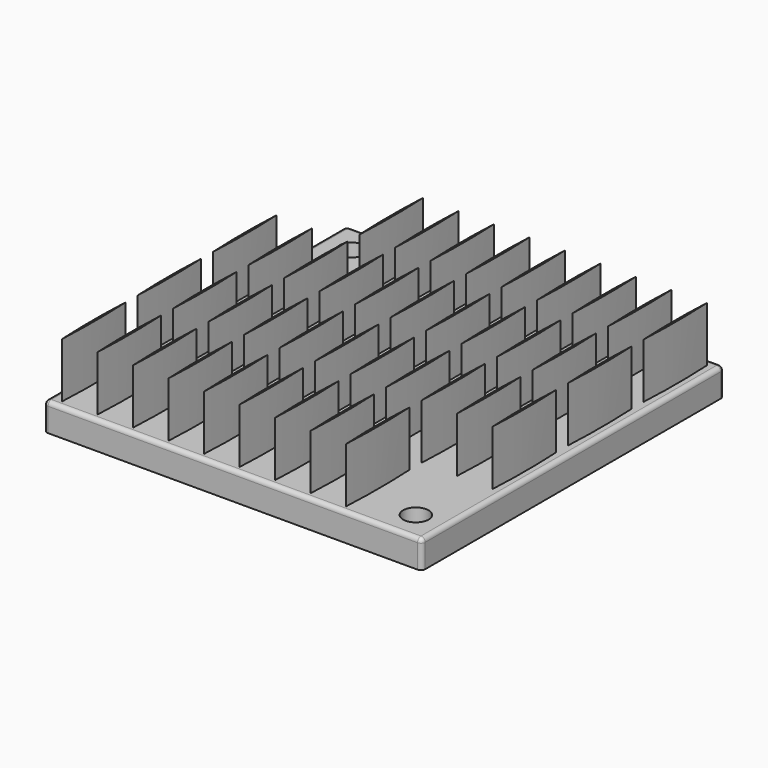
from build123d import *

# Parameters (mm, degrees)
SKETCH011_W                   = 44.7
SKETCH011_H                   = 44.7
PAD006_DEPTH                  = 3.3
FILLET001_R                   = 0.5
PAD007_DEPTH                  = 6.5
PAD007_LINEARPATTERN_2_DEPTH  = 6.5
PAD007_LINEARPATTERN_3_DEPTH  = 6.5
PAD007_LINEARPATTERN_4_DEPTH  = 6.5
PAD007_LINEARPATTERN_5_DEPTH  = 6.5
PAD007_LINEARPATTERN_6_DEPTH  = 6.5
PAD007_LINEARPATTERN_7_DEPTH  = 6.5
PAD007_LINEARPATTERN_8_DEPTH  = 6.5
PAD007_LINEARPATTERN_9_DEPTH  = 6.5
PAD007_LINEARPATTERN_10_DEPTH = 6.5
PAD007_LINEARPATTERN_11_DEPTH = 6.5
LINEARPATTERN001_COUNT        = 4
LINEARPATTERN001_PITCH        = 11.1666666667
SKETCH013_W                   = 4.44947025
SKETCH013_H                   = 9.881485
POCKET006_DEPTH               = 6.5
SKETCH014_W                   = 4.44947025
SKETCH014_H                   = 9.4
POCKET007_DEPTH               = 6.5
SKETCH015_R                   = 1.5
POCKET008_DEPTH               = 3.301


with BuildPart() as part:
    # Sketch011 → Pad006 (new body)
    with BuildSketch(Plane.XY):
        with Locations((-3.85, -18.15)):
            Rectangle(SKETCH011_W, SKETCH011_H)
    extrude(amount=PAD006_DEPTH)

    # Fillet001
    fillet001_edges = [part.edges().sort_by_distance(p)[0] for p in [
        (-3.85, 4.2, 3.3),
        (-26.2, -18.15, 3.3),
        (18.5, -18.15, 3.3),
        (-3.85, -40.5, 3.3),
        (-26.2, 4.2, 1.65),
        (-26.2, -40.5, 1.65),
        (18.5, 4.2, 1.65),
        (18.5, -40.5, 1.65),
    ]]
    fillet(fillet001_edges, radius=FILLET001_R)

    # Sketch012 (on Face13 of Fillet001) → Pad007 (join)
    with BuildSketch(Plane.XY.offset(3.3)):
        with BuildLine():
            ThreePointArc((-24.7, -6.2), (-24.575264875, -1.5), (-24.7, 3.2))
            ThreePointArc((-24.7, 3.2), (-24.824735125, -1.5), (-24.7, -6.2))
        make_face()
    pad007 = extrude(amount=PAD007_DEPTH)

    # Sketch012 LinearPattern 2 → Pad007 LinearPattern 2 (add)
    with BuildSketch(Plane(origin=(4.2, 0, 3.3), x_dir=(1, 0, 0), z_dir=(0, 0, 1))):
        with BuildLine():
            ThreePointArc((-24.7, -6.2), (-24.575264875, -1.5), (-24.7, 3.2))
            ThreePointArc((-24.7, 3.2), (-24.824735125, -1.5), (-24.7, -6.2))
        make_face()
    pad007_linearpattern_2 = extrude(amount=PAD007_LINEARPATTERN_2_DEPTH)

    # Sketch012 LinearPattern 3 → Pad007 LinearPattern 3 (add)
    with BuildSketch(Plane(origin=(8.4, 0, 3.3), x_dir=(1, 0, 0), z_dir=(0, 0, 1))):
        with BuildLine():
            ThreePointArc((-24.7, -6.2), (-24.575264875, -1.5), (-24.7, 3.2))
            ThreePointArc((-24.7, 3.2), (-24.824735125, -1.5), (-24.7, -6.2))
        make_face()
    pad007_linearpattern_3 = extrude(amount=PAD007_LINEARPATTERN_3_DEPTH)

    # Sketch012 LinearPattern 4 → Pad007 LinearPattern 4 (add)
    with BuildSketch(Plane(origin=(12.6, 0, 3.3), x_dir=(1, 0, 0), z_dir=(0, 0, 1))):
        with BuildLine():
            ThreePointArc((-24.7, -6.2), (-24.575264875, -1.5), (-24.7, 3.2))
            ThreePointArc((-24.7, 3.2), (-24.824735125, -1.5), (-24.7, -6.2))
        make_face()
    pad007_linearpattern_4 = extrude(amount=PAD007_LINEARPATTERN_4_DEPTH)

    # Sketch012 LinearPattern 5 → Pad007 LinearPattern 5 (add)
    with BuildSketch(Plane(origin=(16.8, 0, 3.3), x_dir=(1, 0, 0), z_dir=(0, 0, 1))):
        with BuildLine():
            ThreePointArc((-24.7, -6.2), (-24.575264875, -1.5), (-24.7, 3.2))
            ThreePointArc((-24.7, 3.2), (-24.824735125, -1.5), (-24.7, -6.2))
        make_face()
    pad007_linearpattern_5 = extrude(amount=PAD007_LINEARPATTERN_5_DEPTH)

    # Sketch012 LinearPattern 6 → Pad007 LinearPattern 6 (add)
    with BuildSketch(Plane(origin=(21, 0, 3.3), x_dir=(1, 0, 0), z_dir=(0, 0, 1))):
        with BuildLine():
            ThreePointArc((-24.7, -6.2), (-24.575264875, -1.5), (-24.7, 3.2))
            ThreePointArc((-24.7, 3.2), (-24.824735125, -1.5), (-24.7, -6.2))
        make_face()
    pad007_linearpattern_6 = extrude(amount=PAD007_LINEARPATTERN_6_DEPTH)

    # Sketch012 LinearPattern 7 → Pad007 LinearPattern 7 (add)
    with BuildSketch(Plane(origin=(25.2, 0, 3.3), x_dir=(1, 0, 0), z_dir=(0, 0, 1))):
        with BuildLine():
            ThreePointArc((-24.7, -6.2), (-24.575264875, -1.5), (-24.7, 3.2))
            ThreePointArc((-24.7, 3.2), (-24.824735125, -1.5), (-24.7, -6.2))
        make_face()
    pad007_linearpattern_7 = extrude(amount=PAD007_LINEARPATTERN_7_DEPTH)

    # Sketch012 LinearPattern 8 → Pad007 LinearPattern 8 (add)
    with BuildSketch(Plane(origin=(29.4, 0, 3.3), x_dir=(1, 0, 0), z_dir=(0, 0, 1))):
        with BuildLine():
            ThreePointArc((-24.7, -6.2), (-24.575264875, -1.5), (-24.7, 3.2))
            ThreePointArc((-24.7, 3.2), (-24.824735125, -1.5), (-24.7, -6.2))
        make_face()
    pad007_linearpattern_8 = extrude(amount=PAD007_LINEARPATTERN_8_DEPTH)

    # Sketch012 LinearPattern 9 → Pad007 LinearPattern 9 (add)
    with BuildSketch(Plane(origin=(33.6, 0, 3.3), x_dir=(1, 0, 0), z_dir=(0, 0, 1))):
        with BuildLine():
            ThreePointArc((-24.7, -6.2), (-24.575264875, -1.5), (-24.7, 3.2))
            ThreePointArc((-24.7, 3.2), (-24.824735125, -1.5), (-24.7, -6.2))
        make_face()
    pad007_linearpattern_9 = extrude(amount=PAD007_LINEARPATTERN_9_DEPTH)

    # Sketch012 LinearPattern 10 → Pad007 LinearPattern 10 (add)
    with BuildSketch(Plane(origin=(37.8, 0, 3.3), x_dir=(1, 0, 0), z_dir=(0, 0, 1))):
        with BuildLine():
            ThreePointArc((-24.7, -6.2), (-24.575264875, -1.5), (-24.7, 3.2))
            ThreePointArc((-24.7, 3.2), (-24.824735125, -1.5), (-24.7, -6.2))
        make_face()
    pad007_linearpattern_10 = extrude(amount=PAD007_LINEARPATTERN_10_DEPTH)

    # Sketch012 LinearPattern 11 → Pad007 LinearPattern 11 (add)
    with BuildSketch(Plane(origin=(42, 0, 3.3), x_dir=(1, 0, 0), z_dir=(0, 0, 1))):
        with BuildLine():
            ThreePointArc((-24.7, -6.2), (-24.575264875, -1.5), (-24.7, 3.2))
            ThreePointArc((-24.7, 3.2), (-24.824735125, -1.5), (-24.7, -6.2))
        make_face()
    pad007_linearpattern_11 = extrude(amount=PAD007_LINEARPATTERN_11_DEPTH)

    # LinearPattern001: Pad007, Pad007 LinearPattern 2, Pad007 LinearPattern 3, Pad007 LinearPattern 4, Pad007 LinearPattern 5, Pad007 LinearPattern 6, Pad007 LinearPattern 7, Pad007 LinearPattern 8, Pad007 LinearPattern 9, Pad007 LinearPattern 10, Pad007 LinearPattern 11 ×4
    with Locations(*[(0, -i * LINEARPATTERN001_PITCH, 0) for i in range(1, LINEARPATTERN001_COUNT)]):
        add(pad007)
        add(pad007_linearpattern_2)
        add(pad007_linearpattern_3)
        add(pad007_linearpattern_4)
        add(pad007_linearpattern_5)
        add(pad007_linearpattern_6)
        add(pad007_linearpattern_7)
        add(pad007_linearpattern_8)
        add(pad007_linearpattern_9)
        add(pad007_linearpattern_10)
        add(pad007_linearpattern_11)

    # Sketch013 (on Face147 of MultiTransform001) → Pocket006 (cut)
    with BuildSketch(Plane.XY.offset(9.8)):
        with Locations((-22.6, -1.7407425)):
            Rectangle(SKETCH013_W, SKETCH013_H)
    extrude(amount=-POCKET006_DEPTH, mode=Mode.SUBTRACT)

    # Sketch014 (on Face125 of Pocket006) → Pocket007 (cut)
    with BuildSketch(Plane.XY.offset(9.8)):
        with Locations((15.2, -35)):
            Rectangle(SKETCH014_W, SKETCH014_H)
    extrude(amount=-POCKET007_DEPTH, mode=Mode.SUBTRACT)

    # Sketch015 (on Face13 of Pocket007) → Pocket008 (cut, through all)
    with BuildSketch(Plane.XY.offset(3.3)):
        with Locations((-22.7, 0.7)):
            Circle(SKETCH015_R)
        with Locations((15, -37)):
            Circle(SKETCH015_R)
    extrude(amount=-POCKET008_DEPTH, mode=Mode.SUBTRACT)


with BuildPart() as part_1:
    # Body002 placement: moved
    add(part.part.moved(Location((0, 0, 3.2))))


solid = part_1.part
